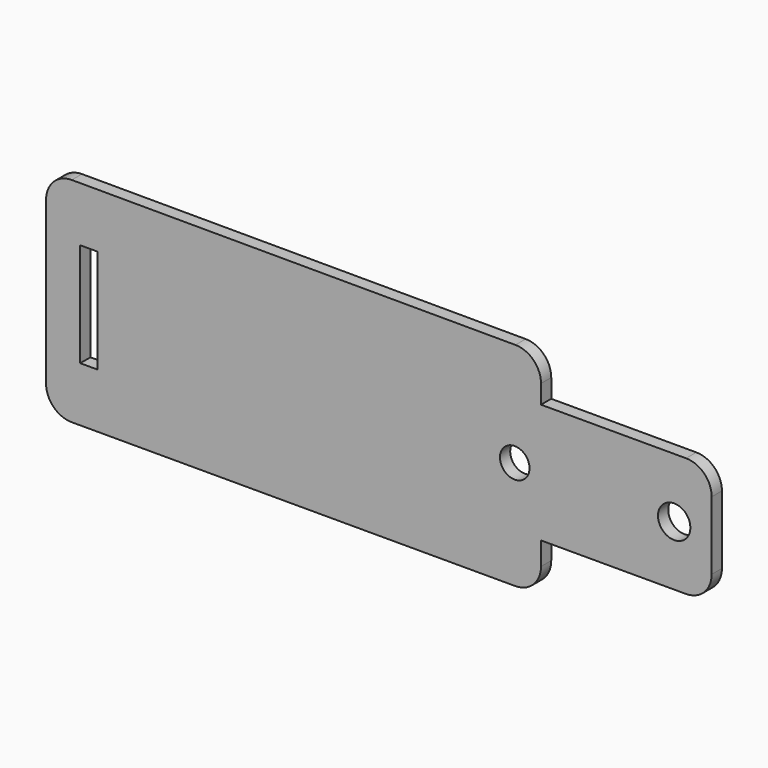
from build123d import *

# Parameters (mm, degrees)
F0_R     = 1.732055
F0_R_2   = 1.895255
F1_DEPTH = 1.5


with BuildPart() as f1:
    # F0 (on Front) → F1 (new body)
    with BuildSketch(Plane.XZ):
        with BuildLine():
            ThreePointArc((-33.94313, 24.993583), (-36.068588, 24.117173), (-36.949533, 21.99359))
            Line((-36.949533, 21.99359), (-36.949533, 12.496795))
            Line((-36.949533, 12.496795), (-36.949533, 3))
            ThreePointArc((-36.949533, 3), (-36.070853, 0.87868), (-33.949533, 0))
            Line((-33.949533, 0), (18.050467, 0))
            ThreePointArc((18.050467, 0), (20.171787, 0.87868), (21.050467, 3))
            Line((21.050467, 3), (21.050467, 5.691942))
            Line((21.050467, 5.691942), (38.050467, 5.691942))
            ThreePointArc((38.050467, 5.691942), (40.171787, 6.570622), (41.050467, 8.691942))
            Line((41.050467, 8.691942), (41.050467, 16.691942))
            ThreePointArc((41.050467, 16.691942), (40.171787, 18.813262), (38.050467, 19.691942))
            Line((38.050467, 19.691942), (21.050467, 19.691942))
            Line((21.050467, 19.691942), (21.050467, 21.882603))
            ThreePointArc((21.050467, 21.882603), (20.17405, 24.001659), (18.05687, 24.882597))
            Line((18.05687, 24.882597), (-33.94313, 24.993583))
        make_face()
        Polygon((-32.949533, 6.412587), (-32.949533, 12.496795), (-32.949533, 18.581003), (-30.949533, 18.581003), (-30.949533, 6.412587), align=None, mode=Mode.SUBTRACT)
        with Locations((17.971789, 12.691942)):
            Circle(F0_R, mode=Mode.SUBTRACT)
        with Locations((36.655212, 12.691942)):
            Circle(F0_R_2, mode=Mode.SUBTRACT)
    extrude(amount=F1_DEPTH)


solid = f1.part
